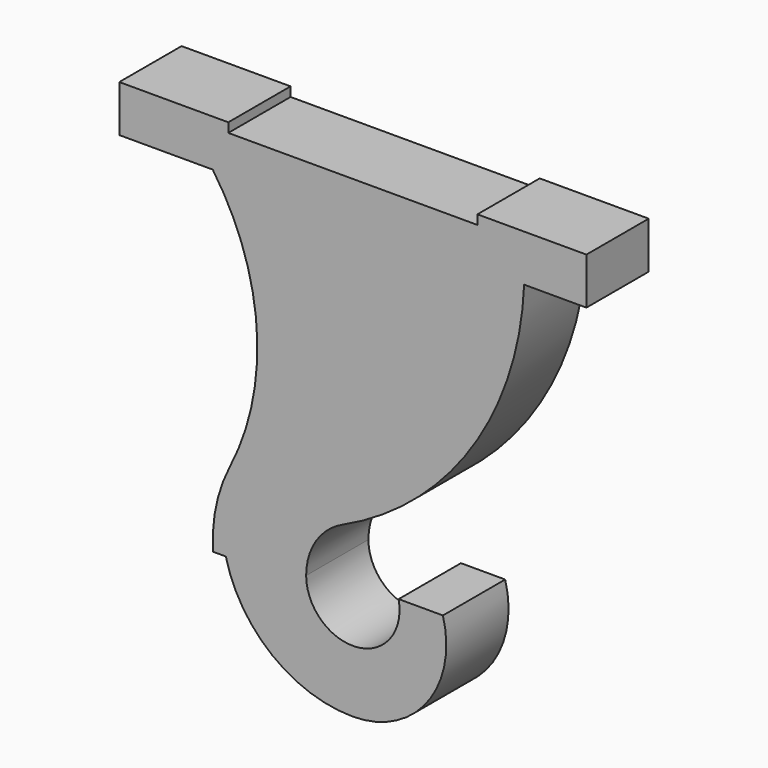
from build123d import *

# Parameters (mm, degrees)
F1_DEPTH = 25


with BuildPart() as f1:
    # F0 (on Front) → F1 (new body)
    with BuildSketch(Plane.XZ):
        with BuildLine():
            ThreePointArc((-3.31914, 18.187686), (38.09361, 53.36235), (55, 105))
            Line((55, 105), (75, 105))
            Line((75, 105), (75, 120))
            Line((75, 120), (40, 120))
            Line((40, 120), (40, 117))
            Line((40, 117), (-40, 117))
            Line((-40, 117), (-40, 120))
            Line((-40, 120), (-75, 120))
            Line((-75, 120), (-75, 105))
            Line((-75, 105), (-45, 105))
            ThreePointArc((-45, 105), (-30.855633, 64.671322), (-39.490962, 22.815659))
            ThreePointArc((-39.490962, 22.815659), (-43.933564, 10.271629), (-44.909919, -3))
            Line((-44.909919, -3), (-40.792156, -3))
            ThreePointArc((-40.792156, -3), (-25.922963, -26.045423), (0, -35))
            ThreePointArc((0, -35), (23.874673, -23.165902), (28.913665, 3))
            Line((28.913665, 3), (14.696938, 3))
            ThreePointArc((14.696938, 3), (1.507634, -14.924042), (-15, 0))
            ThreePointArc((-15, 0), (-11.828292, 10.807803), (-3.31914, 18.187686))
        make_face()
    extrude(amount=F1_DEPTH)


solid = f1.part
